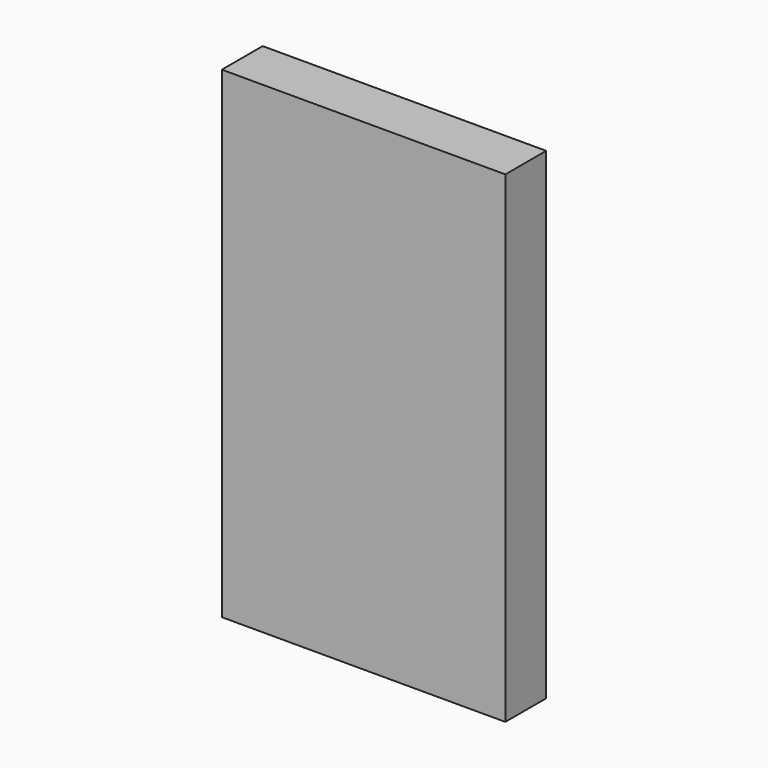
from build123d import *

# Parameters (mm, degrees)
SKETCH_W  = 100
SKETCH_H  = 170
PAD_DEPTH = 18


with BuildPart() as part:
    # Sketch → Pad (new body)
    with BuildSketch(Plane.XZ):
        with Locations((-50, 85)):
            Rectangle(SKETCH_W, SKETCH_H)
    extrude(amount=PAD_DEPTH)


solid = part.part
